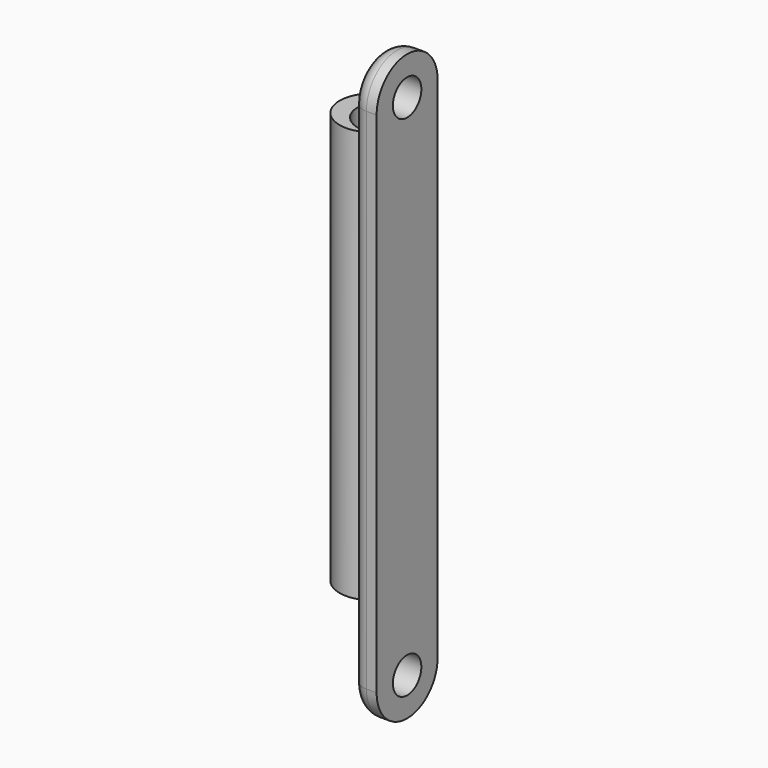
from build123d import *

# Parameters (mm, degrees)
SKETCH002_R                = 3.5
EXTRUDE002_DEPTH           = 5
FILLET002_R                = 3
EXTRUDE025_DEPTH           = 81
EXTRUDE025_ROLL_ANGLE      = -90
EXTRUDE025_PLACEMENT_ANGLE = 180


with BuildPart() as obj1:
    # Sketch002 → Extrude002 (new body)
    with BuildSketch(Plane(origin=(0, 0, 0), x_dir=(0, -1, 0), z_dir=(-1, 0, 0))):
        with BuildLine():
            ThreePointArc((-63.107885, 173.903324), (-70.607885, 181.403324), (-78.107885, 173.903324))
            Line((-78.107885, 173.903324), (-78.107885, 73.903324))
            ThreePointArc((-78.107885, 73.903324), (-70.607885, 66.403324), (-63.107885, 73.903324))
            Line((-63.107885, 173.903324), (-63.107885, 73.903324))
        make_face()
        with Locations((-70.607885, 73.903324)):
            Circle(SKETCH002_R, mode=Mode.SUBTRACT)
        with Locations((-70.607885, 173.903324)):
            Circle(SKETCH002_R, mode=Mode.SUBTRACT)
    extrude(amount=EXTRUDE002_DEPTH)


with BuildPart() as obj1_1:
    # Extrude002 placement: moved
    add(obj1.part.moved(Location((48, 0, 0))))

    # Fillet002
    fillet002_edges = [obj1_1.edges().sort_by_distance(p)[0] for p in [
        (43, 78.107885, 123.903324),
    ]]
    fillet(fillet002_edges, radius=FILLET002_R)


with BuildPart() as fusion029:
    # Sketch026 → Extrude025 (new body)
    with BuildSketch(Plane.XZ):
        with BuildLine():
            ThreePointArc((-3.873562, -5.219724), (6.5, 0), (-3.873562, 5.219724))
            ThreePointArc((-3.873562, -5.219724), (2.950526, 0), (-3.873562, 5.219724))
        make_face()
    extrude(amount=EXTRUDE025_DEPTH)


with BuildPart() as fusion029_1:
    # Extrude025 roll: moved
    add(fusion029.part.rotate(Axis((0, 0, 0), (1, 0, 0)), EXTRUDE025_ROLL_ANGLE))


with BuildPart() as fusion029_2:
    # Extrude025 placement: moved
    add(fusion029_1.part.moved(Location((41.2, 70.65, 88))).rotate(Axis((41.2, 70.65, 88), (0, 0, 1)), EXTRUDE025_PLACEMENT_ANGLE))

    # Fusion029: union obj1
    add(obj1_1.part)


solid = fusion029_2.part
